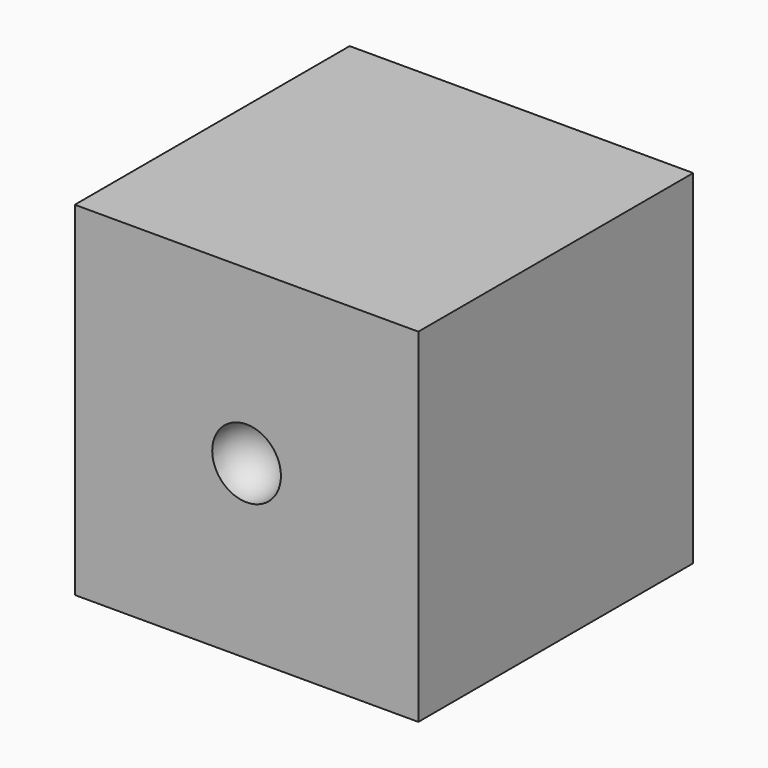
from build123d import *

# Parameters (mm, degrees)
F0_W     = 25.4
F0_H     = 25.4
F1_DEPTH = 25.4


with BuildPart() as f1:
    # F0 (on Front) → F1 (new body)
    with BuildSketch(Plane.XZ):
        with Locations((12.7, 12.7)):
            Rectangle(F0_W, F0_H)
    extrude(amount=F1_DEPTH)

    # F2 (on face) → F3 (revolve, cut)
    with BuildSketch(Plane.XZ.offset(25.4)):
        with BuildLine():
            ThreePointArc((12.7, 10.16), (15.24, 12.7), (12.7, 15.24))
            Line((12.7, 15.24), (12.7, 10.16))
        make_face()
    revolve(axis=Axis((12.7, -25.4, 12.7), (0, 0, -1)), mode=Mode.SUBTRACT)


solid = f1.part
